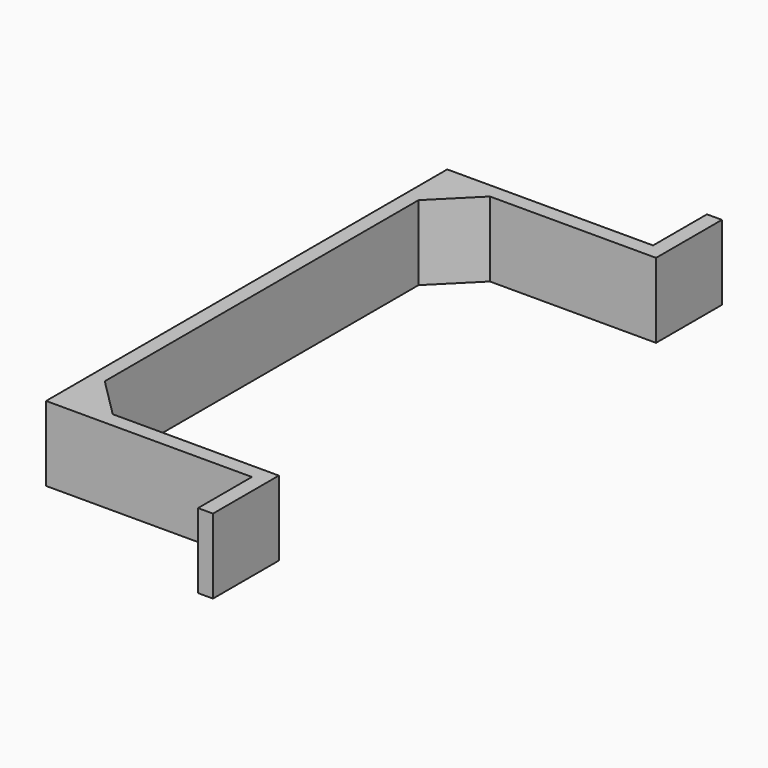
from build123d import *

# Parameters (mm, degrees)
F1_DEPTH = 20


with BuildPart() as f1:
    # F0 (on Top) → F1 (new body)
    with BuildSketch(Plane.XY):
        Polygon((53, 85), (53, 67), (-2, 67), (-2, 0), (-2, -67), (53, -67), (53, -85), (57, -85), (57, -63), (12.606602, -63), (2, -52.393398), (2, -0.5), (2, 52.393398), (12.606602, 63), (57, 63), (57, 85), align=None)
    extrude(amount=F1_DEPTH)


solid = f1.part
